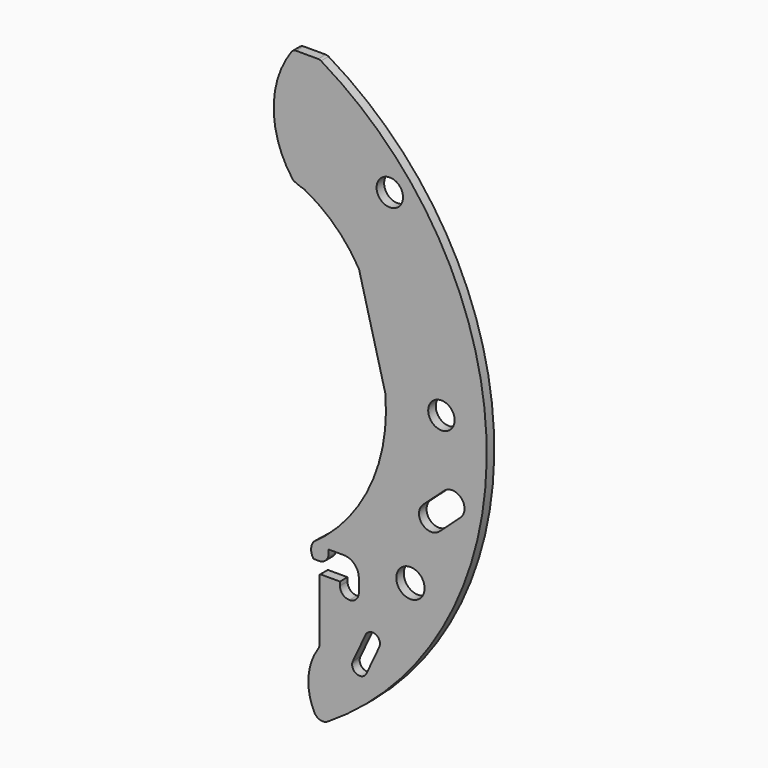
from build123d import *

# Parameters (mm, degrees)
F1_DEPTH = 2.5
F2_D     = 7
F3_D     = 7.5


with BuildPart() as f1:
    # F0 (on Front) → F1 (new body)
    with BuildSketch(Plane.XZ):
        with BuildLine():
            ThreePointArc((44.3332993401, -75.1925694933), (45.8953218526, -76.4841948767), (47.9012588134, -76.1936309943))
            ThreePointArc((47.9012588134, -76.1936309943), (89.9939017876, 1.0476836528), (46.1144673234, 77.2881355932))
            ThreePointArc((46.1144673234, 77.2881355932), (45.7445133706, 77.4460642084), (45.345892868, 77.5))
            Line((45.345892868, 77.5), (39.5109278697, 77.5))
            ThreePointArc((39.5109278697, 77.5), (38.8271106657, 77.3350633062), (38.2936755268, 76.8765253754))
            ThreePointArc((38.2936755268, 76.8765253754), (33.5821559497, 62.0508178423), (38.5502726955, 47.3091138504))
            ThreePointArc((38.5502726955, 47.3091138504), (38.7858981986, 47.059289436), (39.0721677836, 46.8696019548))
            ThreePointArc((39.0721677836, 46.8696019548), (40.2651851973, 46.3424047588), (41.5083731547, 45.9478022555))
            ThreePointArc((41.5083731547, 45.9478022555), (41.6750655835, 45.8941514704), (41.8343694623, 45.8214393893))
            ThreePointArc((41.8343694623, 45.8214393893), (49.9805703397, 39.922405473), (56.1769145362, 32))
            Line((56.1769145362, 32), (63.1382883672, 5.2967772755))
            ThreePointArc((63.1382883672, 5.2967772755), (59.0933773697, -17.6430529265), (44.1204665888, -35.4870731412))
            ThreePointArc((44.1204665888, -35.4870731412), (43.4927479121, -37.4870731412), (44.1204665888, -39.4870731412))
            Line((44.1204665888, -39.4870731412), (45.6204665888, -39.4870731412))
            ThreePointArc((45.6204665888, -39.4870731412), (47.3882335418, -38.7548400941), (48.1204665888, -36.9870731412))
            Line((48.1204665888, -36.9870731412), (48.1204665888, -35.9870731412))
            Line((48.1204665888, -35.9870731412), (52.1204665888, -35.9870731412))
            ThreePointArc((52.1204665888, -35.9870731412), (54.9488937136, -37.1586460164), (56.1204665888, -39.9870731412))
            Line((56.1204665888, -39.9870731412), (56.1204665888, -43.4870731412))
            ThreePointArc((56.1204665888, -43.4870731412), (55.3882335418, -45.2548400941), (53.6204665888, -45.9870731412))
            ThreePointArc((53.6204665888, -45.9870731412), (51.8526996359, -45.2548400941), (51.1204665888, -43.4870731412))
            Line((51.1204665888, -43.4870731412), (51.1204665888, -42.4870731412))
            Line((51.1204665888, -42.4870731412), (46.0075130443, -42.4870731412))
            ThreePointArc((46.0075130443, -42.4870731412), (45.830736349, -42.5602964459), (45.7575130443, -42.7370731412))
            Line((45.7575130443, -42.7370731412), (45.7575130443, -58.7020410289))
            ThreePointArc((45.7575130443, -58.7020410289), (45.647970263, -59.4339660836), (45.3289416157, -60.1017494533))
            ThreePointArc((45.3289416157, -60.1017494533), (42.7900537692, -67.5124966586), (44.3332993401, -75.1925694933))
        make_face()
        with BuildLine():
            ThreePointArc((58.1584893781, -61.6403112281), (55.5006372806, -62.6076902787), (54.53325823, -59.9498381811))
            Line((54.53325823, -59.9498381811), (57.9142043239, -52.6993758848))
            ThreePointArc((57.9142043239, -52.6993758848), (60.5720564215, -51.7319968342), (61.5394354721, -54.3898489318))
            Line((61.5394354721, -54.3898489318), (58.1584893781, -61.6403112281))
        make_face(mode=Mode.SUBTRACT)
        with BuildLine():
            ThreePointArc((78.683841012, -12.3700931974), (83.2746114855, -12.5933116091), (83.0513930738, -17.1840820826))
            Line((83.0513930738, -17.1840820826), (77.4967905139, -22.2235652309))
            ThreePointArc((77.4967905139, -22.2235652309), (72.9060200403, -22.0003468191), (73.1292384521, -17.4095763456))
            Line((73.1292384521, -17.4095763456), (78.683841012, -12.3700931974))
        make_face(mode=Mode.SUBTRACT)
    extrude(amount=F1_DEPTH)

    # F2 (through all)
    with Locations(Plane(origin=(0, 0, 0), x_dir=(1, 0, 0), z_dir=(0, 1, 0))):
        with Locations((64.3298934041, -52.5379906052), (78, -5)):
            Hole(F2_D / 2)

    # F3 (through all)
    with Locations(Plane(origin=(0, 0, 0), x_dir=(1, 0, 0), z_dir=(0, 1, 0))):
        with Locations((69.7928888027, 36.7811946296)):
            Hole(F3_D / 2)


solid = f1.part
